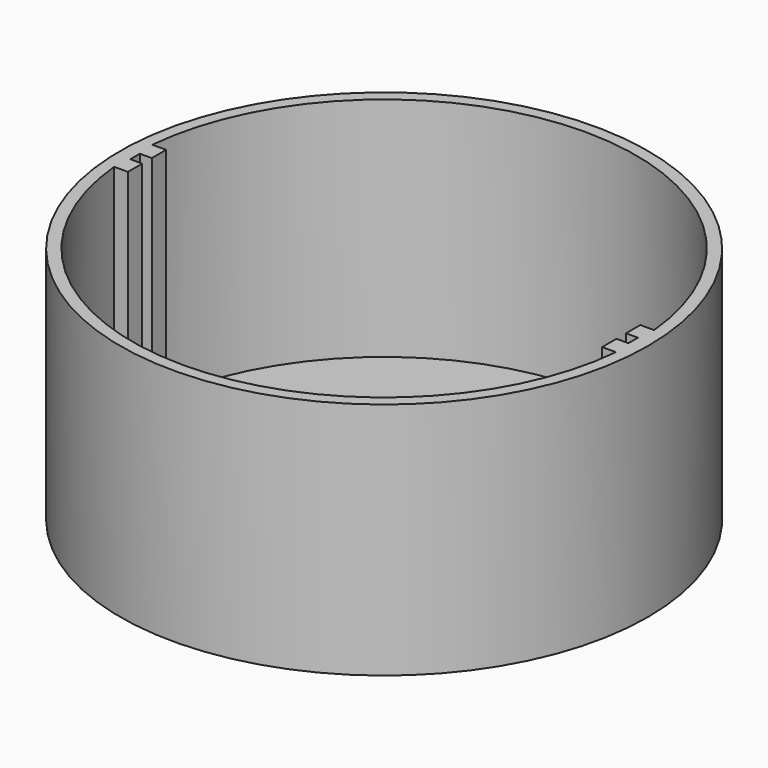
from build123d import *

# Parameters (mm, degrees)
SKETCH_R        = 44.25
PAD_DEPTH       = 40
SKETCH001_R     = 42.25
POCKET_DEPTH    = 38
SKETCH002_W     = 3
SKETCH002_H     = 8
PAD001_DEPTH    = 38
SKETCH003_W     = 3
SKETCH003_H     = 2
POCKET001_DEPTH = 38
SKETCH004_R     = 1.5
SKETCH004_W     = 20
SKETCH004_H     = 3.5
SKETCH004_W_2   = 10
SKETCH004_H_2   = 5
SKETCH004_W_3   = 15
SKETCH004_H_3   = 7
POCKET002_DEPTH = 2


with BuildPart() as part:
    # Sketch → Pad (new body)
    with BuildSketch(Plane.XY):
        Circle(SKETCH_R)
    extrude(amount=PAD_DEPTH)

    # Sketch001 (on Face3 of Pad) → Pocket (cut)
    with BuildSketch(Plane.XY.offset(40)):
        Circle(SKETCH001_R)
    extrude(amount=-POCKET_DEPTH, mode=Mode.SUBTRACT)

    # Sketch002 (on Face5 of Pocket) → Pad001 (join)
    with BuildSketch(Plane.XY.offset(2)):
        with Locations((-41.25, 0)):
            Rectangle(SKETCH002_W, SKETCH002_H)
        with Locations((41.25, 0)):
            Rectangle(SKETCH002_W, SKETCH002_H)
    extrude(amount=PAD001_DEPTH)

    # Sketch003 (on Face14 of Pad001) → Pocket001 (cut)
    with BuildSketch(Plane.XY.offset(40)):
        with Locations((-40.25, 0)):
            Rectangle(SKETCH003_W, SKETCH003_H)
        with Locations((40.25, 0)):
            Rectangle(SKETCH003_W, SKETCH003_H)
    extrude(amount=-POCKET001_DEPTH, mode=Mode.SUBTRACT)

    # Sketch004 (on Face9 of Pocket001) → Pocket002 (cut)
    with BuildSketch(Plane.XY.offset(2)):
        with Locations((-17.5, 1.25)):
            Circle(SKETCH004_R)
        with Locations((0, 0.75)):
            Rectangle(SKETCH004_W, SKETCH004_H)
        with Locations((-32.5, 2)):
            Rectangle(SKETCH004_W_2, SKETCH004_H_2)
        with Locations((-3.5, -9.5)):
            Rectangle(SKETCH004_W_3, SKETCH004_H_3)
        with Locations((22.5, -9.5)):
            Rectangle(SKETCH004_W_3, SKETCH004_H_3)
        with Locations((-1.5, 9.5)):
            Rectangle(SKETCH004_W_3, SKETCH004_H_3)
        with Locations((24.5, 9.5)):
            Rectangle(SKETCH004_W_3, SKETCH004_H_3)
    extrude(amount=-POCKET002_DEPTH, mode=Mode.SUBTRACT)


solid = part.part
